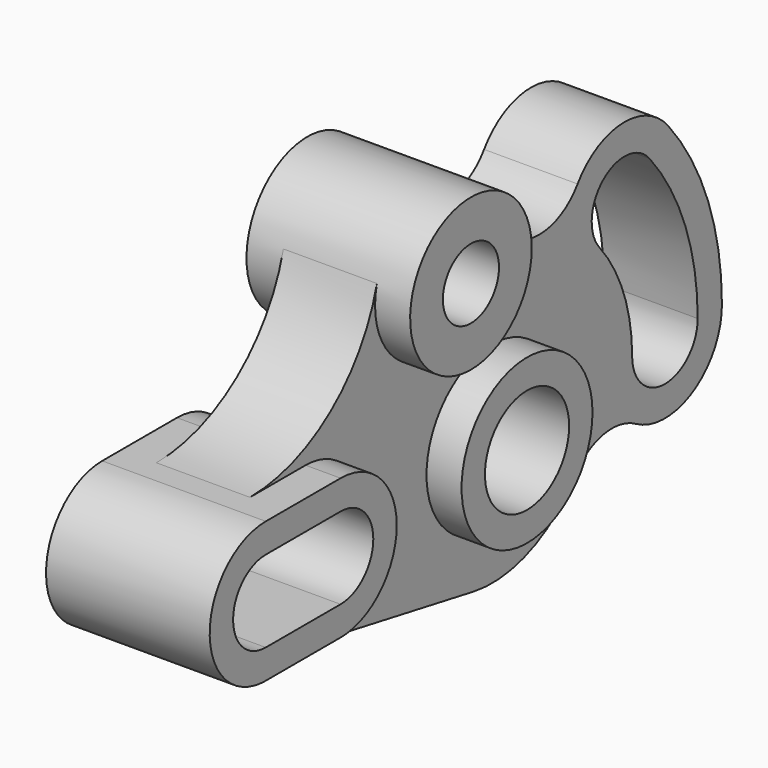
from build123d import *

# Parameters (mm, degrees)
F0_R     = 22.225
F1_DEPTH = 12.7
F0_R_2   = 9.525
F0_R_3   = 14.2875
F2_DEPTH = 22.225


with BuildPart() as f1:
    # F0 (on Right) → F1 (new body, symmetric)
    with BuildSketch(Plane.YZ):
        with BuildLine():
            ThreePointArc((0.7709428469, 53.3727500739), (1.3823409605, 50.5277313214), (1.5875, 47.625))
            ThreePointArc((1.5875, 47.625), (-21.5859879765, 27.1439069815), (-39.0642428209, 52.6585365854))
            ThreePointArc((-39.0642428209, 52.6585365854), (-54.8414617427, 28.4450035745), (-82.1718427428, 19.05))
            Line((-82.1718427428, 19.05), (-63.2968, 19.05))
            ThreePointArc((-63.2968, 19.05), (-44.2468, 0), (-63.2968, -19.05))
            Line((-63.2968, -19.05), (-88.6968, -19.05))
            ThreePointArc((-88.6968, -19.05), (-90.408513446, -18.9729422357), (-92.1063790378, -18.7423923442))
            Line((-92.1063790378, -18.7423923442), (-6.2508949026, -34.3610526311))
            ThreePointArc((-6.2508949026, -34.3610526311), (12.8175803312, -32.4879248253), (28.0282905638, -20.8367596586))
            ThreePointArc((28.0282905638, -20.8367596586), (37.6405240223, -14.7442138944), (48.8602257395, -16.650109833))
            ThreePointArc((48.8602257395, -16.650109833), (68.3067503871, -16.8143453506), (78.0777321497, 0))
            ThreePointArc((78.0777321497, 0), (73.3690687488, 26.7041571404), (59.8110128446, 50.1873988183))
            ThreePointArc((59.8110128446, 50.1873988183), (44.0883532808, 57.07968597), (29.0718597616, 48.7603970384))
            ThreePointArc((29.0718597616, 48.7603970384), (13.4642776808, 42.1258150573), (0.7709428469, 53.3727500739))
        make_face()
        Circle(F0_R, mode=Mode.SUBTRACT)
        with BuildLine():
            ThreePointArc((69.85, 0), (58.7248, -11.1252), (47.5996, 0))
            ThreePointArc((47.5996, 0), (44.7289928724, 16.2800220142), (36.4634090747, 30.596433106))
            ThreePointArc((36.4634090747, 30.596433106), (37.834665998, 46.2699714599), (53.5082043519, 44.8987145366))
            ThreePointArc((53.5082043519, 44.8987145366), (65.6375295619, 23.8901070113), (69.85, 0))
        make_face(mode=Mode.SUBTRACT)
    extrude(amount=F1_DEPTH, both=True)

    # F0 (on Right) → F2 (join, symmetric)
    with BuildSketch(Plane.YZ):
        with BuildLine():
            Line((-63.2968, 19.05), (-82.1718427428, 19.05))
            Line((-82.1718427428, 19.05), (-88.6968, 19.05))
            ThreePointArc((-88.6968, 19.05), (-107.6697422357, 1.711713446), (-92.1063790378, -18.7423923442))
            ThreePointArc((-92.1063790378, -18.7423923442), (-90.408513446, -18.9729422357), (-88.6968, -19.05))
            Line((-88.6968, -19.05), (-63.2968, -19.05))
            ThreePointArc((-63.2968, -19.05), (-44.2468, 0), (-63.2968, 19.05))
        make_face()
        with BuildLine():
            ThreePointArc((-88.6968, -11.0998), (-99.7966, 0), (-88.6968, 11.0998))
            Line((-88.6968, 11.0998), (-63.2968, 11.0998))
            ThreePointArc((-63.2968, 11.0998), (-52.197, 0), (-63.2968, -11.0998))
            Line((-63.2968, -11.0998), (-88.6968, -11.0998))
        make_face(mode=Mode.SUBTRACT)
        with BuildLine():
            ThreePointArc((-39.0642428209, 52.6585365854), (-21.5859879765, 27.1439069815), (1.5875, 47.625))
            ThreePointArc((1.5875, 47.625), (1.3823409605, 50.5277313214), (0.7709428469, 53.3727500739))
            ThreePointArc((0.7709428469, 53.3727500739), (-19.419954655, 68.2591837688), (-39.0642428209, 52.6585365854))
        make_face()
        with Locations((-19.05, 47.625)):
            Circle(F0_R_2, mode=Mode.SUBTRACT)
        Circle(F0_R)
        Circle(F0_R_3, mode=Mode.SUBTRACT)
    extrude(amount=F2_DEPTH, both=True)


solid = f1.part
